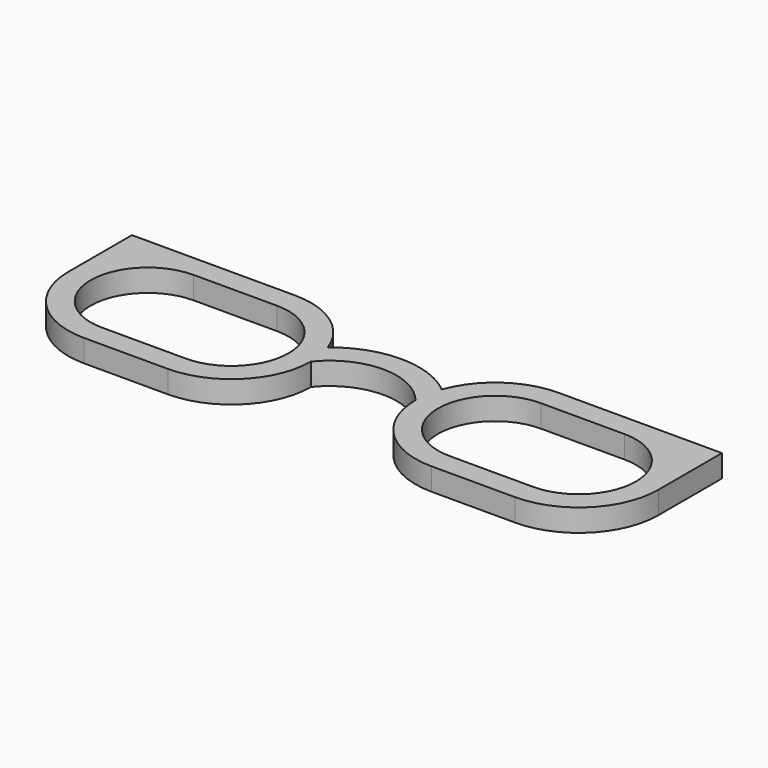
from build123d import *

# Parameters (mm, degrees)
F1_DEPTH = 3


with BuildPart() as f1:
    # F0 (on Top) → F1 (new body)
    with BuildSketch(Plane.XY):
        with BuildLine():
            ThreePointArc((-39.498382, 0), (-36.379069, 7.530687), (-28.848382, 10.65))
            Line((-28.848382, 10.65), (-39.498382, 10.65))
            Line((-39.498382, 10.65), (-39.498382, 0))
        make_face()
        with BuildLine():
            Line((-17.65, 10.65), (-28.848382, 10.65))
            ThreePointArc((-28.848382, 10.65), (-36.379069, 7.530687), (-39.498382, 0))
            ThreePointArc((-39.498382, 0), (-36.379069, -7.530687), (-28.848382, -10.65))
            Line((-28.848382, -10.65), (-17.65, -10.65))
            ThreePointArc((-17.65, -10.65), (-10.119313, -7.530687), (-7, 0))
            ThreePointArc((-7, 0), (-7.158698, 1.831689), (-7.630063, 3.608788))
            ThreePointArc((-7.630063, 3.608788), (-11.526729, 8.71367), (-17.65, 10.65))
        make_face()
        with BuildLine():
            ThreePointArc((-17.65, 7.65), (-10, 0), (-17.65, -7.65))
            Line((-17.65, -7.65), (-28.848382, -7.65))
            ThreePointArc((-28.848382, -7.65), (-36.498382, 0), (-28.848382, 7.65))
            Line((-28.848382, 7.65), (-17.65, 7.65))
        make_face(mode=Mode.SUBTRACT)
        with BuildLine():
            ThreePointArc((7.630063, 3.608788), (0, 6.350694), (-7.630063, 3.608788))
            ThreePointArc((-7.630063, 3.608788), (-7.158698, 1.831689), (-7, 0))
            ThreePointArc((-7, 0), (0, 3.350694), (7, 0))
            ThreePointArc((7, 0), (7.158698, 1.831689), (7.630063, 3.608788))
        make_face()
        with BuildLine():
            ThreePointArc((17.65, 10.65), (11.526729, 8.71367), (7.630063, 3.608788))
            ThreePointArc((7.630063, 3.608788), (7.158698, 1.831689), (7, 0))
            ThreePointArc((7, 0), (10.119313, -7.530687), (17.65, -10.65))
            Line((17.65, -10.65), (28.848382, -10.65))
            ThreePointArc((28.848382, -10.65), (36.379069, -7.530687), (39.498382, 0))
            ThreePointArc((39.498382, 0), (36.379069, 7.530687), (28.848382, 10.65))
            Line((28.848382, 10.65), (17.65, 10.65))
        make_face()
        with BuildLine():
            Line((28.848382, -7.65), (17.65, -7.65))
            ThreePointArc((17.65, -7.65), (10, 0), (17.65, 7.65))
            Line((17.65, 7.65), (28.848382, 7.65))
            ThreePointArc((28.848382, 7.65), (36.498382, 0), (28.848382, -7.65))
        make_face(mode=Mode.SUBTRACT)
        with BuildLine():
            Line((39.498382, 10.65), (28.848382, 10.65))
            ThreePointArc((28.848382, 10.65), (36.379069, 7.530687), (39.498382, 0))
            Line((39.498382, 0), (39.498382, 10.65))
        make_face()
    extrude(amount=F1_DEPTH)


solid = f1.part
